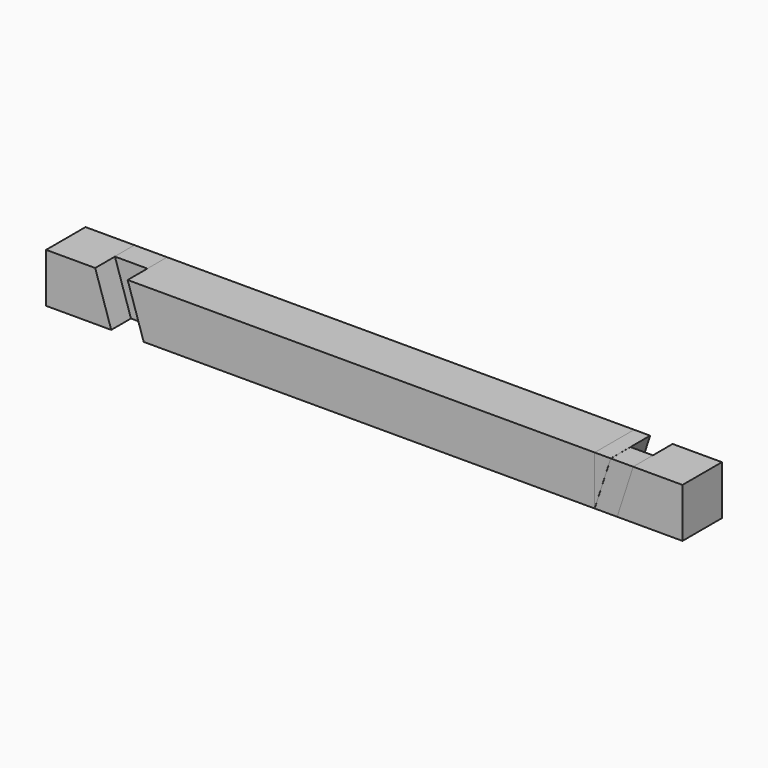
from build123d import *

# Parameters (mm, degrees)
F1_DEPTH = 10
F3_DEPTH = 5
F5_DEPTH = 10
F7_DEPTH = 5


with BuildPart() as f1:
    # F0 (on Front) → F1 (new body)
    with BuildSketch(Plane.XZ):
        Polygon((-58.167155, 14.072056), (-68.130615, 14.072056), (-68.130615, 4.072056), (-54.917958, 4.072056), align=None)
        Polygon((-48.335672, 4.072056), (43.134328, 4.072056), (43.134328, 14.072056), (-51.584869, 14.072056), align=None)
    extrude(amount=F1_DEPTH)


with BuildPart() as f3:
    # F2 (on face) → F3 (new body)
    with BuildSketch(Plane.XZ):
        Polygon((-55.278173, 5.180683), (-54.912802, 4.074413), (-48.403356, 4.074413), (-51.583432, 14.074158), (-58.215443, 14.074158), (-58.214749, 14.072056), (-58.167155, 14.072056), align=None)
        Polygon((-58.215443, 14.074158), (-54.912802, 4.074413), (-48.403356, 4.074413), (-51.583432, 14.074158), align=None)
    extrude(amount=F3_DEPTH)


with BuildPart() as f5:
    # F4 (on face) → F5 (new body)
    with BuildSketch(Plane.XZ):
        Polygon((60.942759, 4.072056), (60.942759, 14.072056), (50.941956, 14.072056), (47.692759, 4.072056), align=None)
        Polygon((46.383525, 14.072056), (43.134328, 14.072056), (43.134328, 4.072056), align=None)
    extrude(amount=F5_DEPTH)


with BuildPart() as f7:
    # F6 (on face) → F7 (new body)
    with BuildSketch(Plane.XZ.offset(10)):
        Polygon((47.692759, 4.072056), (50.941956, 14.072056), (46.395757, 14.072056), (43.14656, 4.072056), align=None)
    extrude(amount=-F7_DEPTH)


solid = Compound([f1.part, f3.part, f5.part, f7.part])
